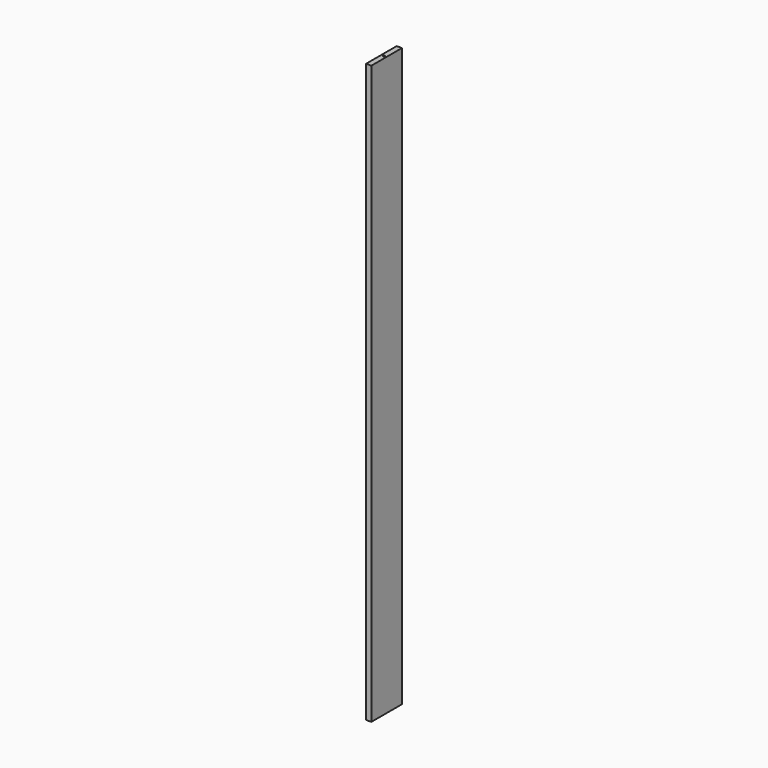
from build123d import *

# Parameters (mm, degrees)
F0_W     = 130
F0_H     = 1964
F1_DEPTH = 18
F2_R     = 3
F3_DEPTH = 5


with BuildPart() as f1:
    # F0 (on Right) → F1 (new body)
    with BuildSketch(Plane.YZ):
        Rectangle(F0_W, F0_H)
    extrude(amount=F1_DEPTH)

    # F2 (on face) → F3 (cut)
    with BuildSketch(Plane.XY.offset(982)):
        with Locations((9, 0)):
            Circle(F2_R)
    extrude(amount=-F3_DEPTH, mode=Mode.SUBTRACT)


solid = f1.part
